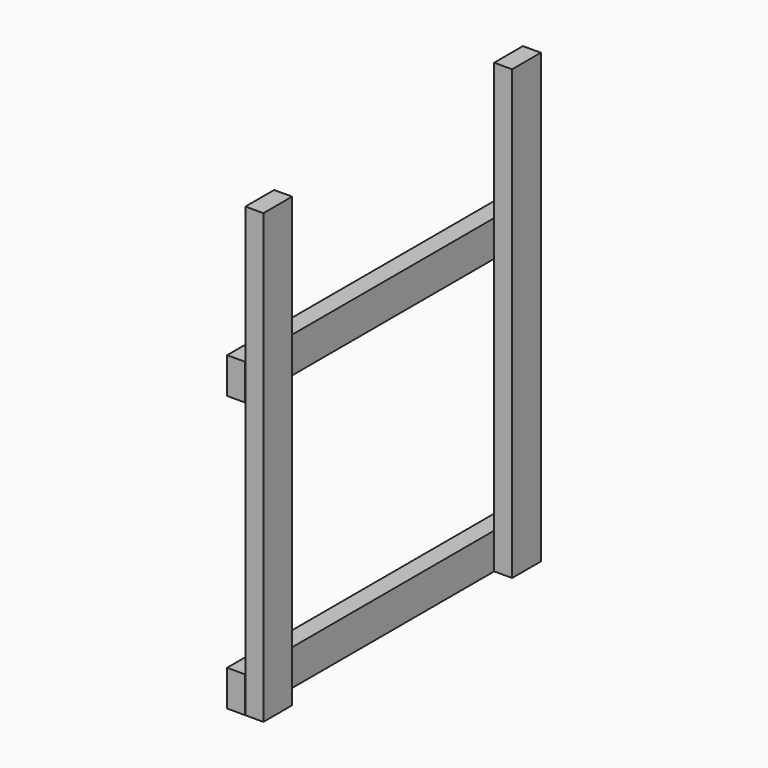
from build123d import *

# Parameters (mm, degrees)
F0_W     = 19.05
F0_H     = 38.100007
F1_DEPTH = 475
F2_W     = 19.05
F2_H     = 38.1
F3_DEPTH = 475
F4_W     = 368.3
F4_H     = 38.1
F5_DEPTH = 19.05
F6_W     = 368.3
F6_H     = 38.1
F7_DEPTH = 19.05


with BuildPart() as f1:
    # F0 (on Top) → F1 (new body)
    with BuildSketch(Plane.XY):
        with Locations((-71.241061, 43.458669)):
            Rectangle(F0_W, F0_H)
    extrude(amount=F1_DEPTH)


with BuildPart() as f3:
    # F2 (on Top) → F3 (new body)
    with BuildSketch(Plane.XY):
        with Locations((-70.916706, -286.741328)):
            Rectangle(F2_W, F2_H)
    extrude(amount=F3_DEPTH)


with BuildPart() as f5:
    # F4 (on face) → F5 (new body)
    with BuildSketch(Plane(origin=(-80.766061, 0, 0), x_dir=(0, -1, 0), z_dir=(-1, 0, 0))):
        with Locations((121.641328, 19.05)):
            Rectangle(F4_W, F4_H)
    extrude(amount=F5_DEPTH)


with BuildPart() as f7:
    # F6 (on face) → F7 (new body)
    with BuildSketch(Plane(origin=(-80.766061, 0, 0), x_dir=(0, -1, 0), z_dir=(-1, 0, 0))):
        with Locations((121.641328, 310.899256)):
            Rectangle(F6_W, F6_H)
    extrude(amount=F7_DEPTH)


solid = Compound([f1.part, f3.part, f5.part, f7.part])
